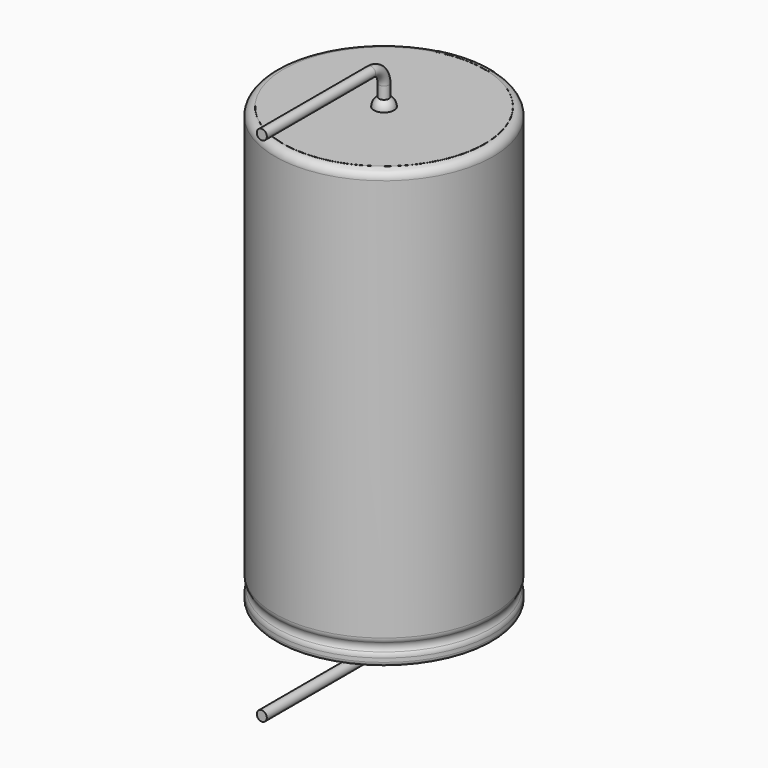
from build123d import *

# Parameters (mm, degrees)
SKETCH011_R             = 0.3
BODY007_PLACEMENT_ANGLE = 180
REVOLUTION001_ANGLE     = -30
POCKET_DEPTH            = 6.511
LINEARPATTERN_COUNT     = 6
LINEARPATTERN_PITCH     = 4.2
SKETCH012_R             = 6
PAD_DEPTH               = 0.01
BODY008_PLACEMENT_ANGLE = 90


with BuildPart() as lead:
    # AdditivePipe: sweep along a path in Sketch010
    with BuildLine(Plane(origin=(0, 0, 0), x_dir=(0, -1, 0), z_dir=(-1, 0, 0))) as additivepipe_path:
        Line((0, 26), (0, 27.24))
        ThreePointArc((0, 27.24), (0.292893, 27.947107), (1, 28.24))
        Line((1, 28.24), (9.1, 28.24))
    # Sketch011 → AdditivePipe (sweep)
    with BuildSketch(Plane.XY.offset(26)):
        Circle(SKETCH011_R)
    sweep(path=additivepipe_path.line)


with BuildPart() as obj1:
    # Body007 base: copy of Lead
    add(lead.part)


with BuildPart() as obj1_1:
    # Body007 placement: moved
    add(obj1.part.moved(Location((0, 0, 26))).rotate(Axis((0, 0, 26), (0, 1, 0)), BODY007_PLACEMENT_ANGLE))


with BuildPart() as polaritymarking:
    # Sketch005 → Revolution001 (revolve)
    with BuildSketch(Plane(origin=(0, 0, 0), x_dir=(-0.258819, 0.965926, 0), z_dir=(0.965926, 0.258819, 0))):
        with BuildLine():
            Line((6.01, 0.043526), (6.01, 26.01))
            ThreePointArc((6.01, 26.01), (6.363553, 25.863553), (6.51, 25.51))
            Line((6.51, 25.51), (6.51, 1.523941))
            ThreePointArc((6.51, 1.523941), (6.489134, 1.381006), (6.428278, 1.25))
            ThreePointArc((6.428278, 1.25), (6.353698, 1), (6.428278, 0.75))
            ThreePointArc((6.428278, 0.75), (6.489134, 0.618994), (6.51, 0.476059))
            Line((6.51, 0.476059), (6.51, 0.043526))
            ThreePointArc((6.51, 0.043526), (6.26, -0.206474), (6.01, 0.043526))
        make_face()
    revolve(axis=Axis((0, 0, 0), (0, 0, 1)), revolution_arc=REVOLUTION001_ANGLE)

    # Sketch013 → Pocket (cut, through all)
    with BuildSketch(Plane.XZ):
        Polygon((0.375, 2), (-0.375, 2), (-0.375, 3), (0, 3.5), (0.375, 3), align=None)
    pocket = extrude(amount=-POCKET_DEPTH, mode=Mode.SUBTRACT)

    # LinearPattern: Pocket ×6
    with Locations(*[(0, 0, i * LINEARPATTERN_PITCH) for i in range(1, LINEARPATTERN_COUNT)]):
        add(pocket, mode=Mode.SUBTRACT)


with BuildPart() as housing:
    # Sketch → Revolution (revolve)
    with BuildSketch(Plane.XZ):
        with BuildLine():
            Line((0, 26), (6, 26))
            ThreePointArc((6.5, 25.5), (6.353553, 25.853553), (6, 26))
            Line((6.5, 25.5), (6.5, 1.523941))
            ThreePointArc((6.418278, 1.25), (6.479134, 1.381006), (6.5, 1.523941))
            ThreePointArc((6.418278, 1.25), (6.343698, 1), (6.418278, 0.75))
            ThreePointArc((6.5, 0.476059), (6.479134, 0.618994), (6.418278, 0.75))
            Line((6.5, 0.476059), (6.5, 0.25))
            ThreePointArc((6.25, 0), (6.426777, 0.073223), (6.5, 0.25))
            Line((0, 0), (6.25, 0))
            Line((0, 26), (0, 0))
        make_face()
    revolve(axis=Axis((0, 0, 0), (0, 0, 1)))


with BuildPart() as fusion:
    # Sphere → Sphere (revolve)
    with BuildSketch(Plane.XZ):
        with BuildLine():
            ThreePointArc((0, -0.6), (0.6, 0), (0, 0.6))
            Line((0, 0.6), (0, -0.6))
        make_face()
    revolve(axis=Axis((0, 0, 0), (0, 0, 1)))

    # Sketch012 (on ShapeBinder) → Pad (new body)
    with BuildSketch(Plane(origin=(0, 0, 0), x_dir=(0, -1, 0), z_dir=(0, 0, 1))):
        Circle(SKETCH012_R)
    extrude(amount=PAD_DEPTH)


with BuildPart() as fusion_1:
    # Body008 placement: moved
    add(fusion.part.moved(Location((0, 0, 26))).rotate(Axis((0, 0, 26), (0, 0, -1)), BODY008_PLACEMENT_ANGLE))

    # Fusion: union obj1, Lead, PolarityMarking, Housing
    add(obj1_1.part)
    add(lead.part)
    add(polaritymarking.part)
    add(housing.part)


solid = fusion_1.part
